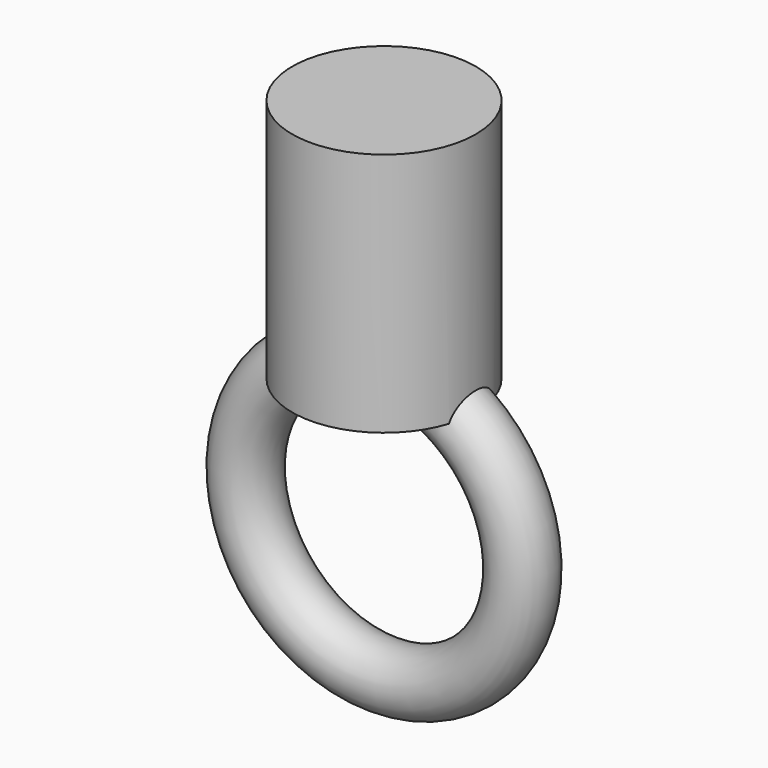
from build123d import *

# Parameters (mm, degrees)
F0_R     = 1.905
F1_DEPTH = 5.08
F3_R     = 0.635


with BuildPart() as f1:
    # F0 (on Top) → F1 (new body)
    with BuildSketch(Plane.XY):
        Circle(F0_R)
    extrude(amount=F1_DEPTH)

    # F3 (on Right) → F4 (revolve)
    with BuildSketch(Plane.YZ):
        with Locations((0, 0.3302)):
            Circle(F3_R)
    revolve(axis=Axis((0, 0, -2.54), (0, -1, 0)))


solid = f1.part
